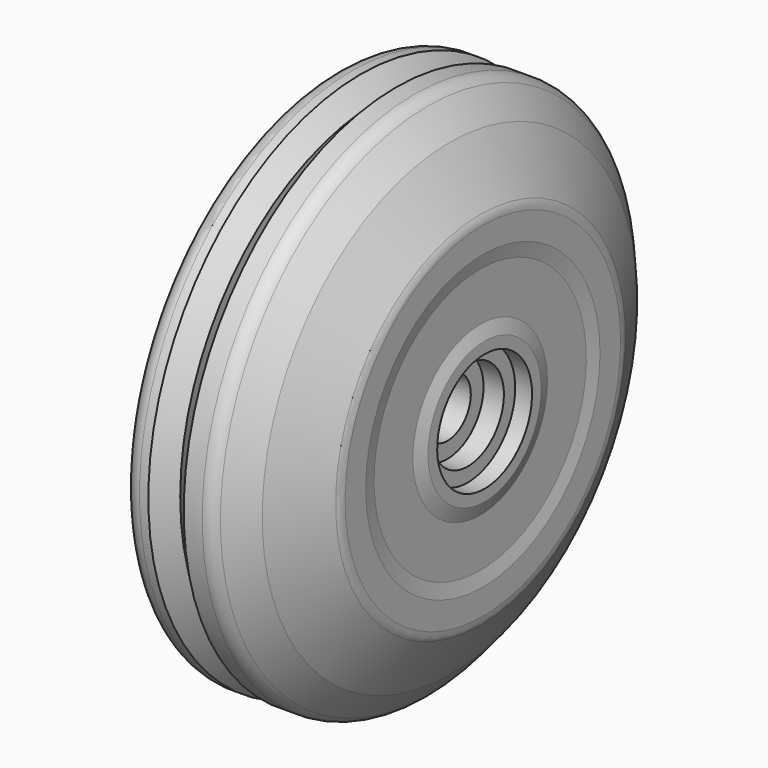
from build123d import *


with BuildPart() as f1:
    # F0 (on Front) → F1 (revolve)
    with BuildSketch(Plane.XZ):
        with BuildLine():
            Line((0, 1.220335), (0, 0))
            Line((0, 0), (6.8, 0))
            Line((6.8, 0), (6.8, 3.3))
            Line((6.8, 3.3), (12.8, 3.3))
            Line((12.8, 3.3), (12.8, 5.1))
            Line((12.8, 5.1), (15.1, 5.1))
            Line((15.1, 5.1), (15.1, 6.7))
            Line((15.1, 6.7), (17, 6.7))
            Line((17, 6.7), (17, 8))
            Line((17, 8), (16.5, 9.5))
            Line((16.5, 9.5), (16.5, 15))
            Line((16.5, 15), (16.8, 16.552417))
            Line((16.8, 16.552417), (16.8, 19.464102))
            ThreePointArc((16.8, 19.464102), (16.731852, 19.98174), (16.532051, 20.464102))
            Line((16.532051, 20.464102), (13.056557, 26.483833))
            Line((13.056557, 26.483833), (10.597967, 29.312118))
            ThreePointArc((10.597967, 29.312118), (9.917934, 29.819923), (9.088547, 30))
            Line((9.088547, 30), (7, 30))
            Line((7, 30), (5, 28))
            Line((5, 28), (3, 30))
            Line((3, 30), (2, 30))
            ThreePointArc((2, 30), (0.585786, 29.414214), (0, 28))
            Line((0, 28), (0, 24.727681))
            ThreePointArc((0, 24.727681), (0.120536, 24.043856), (0.467617, 23.442457))
            Line((0.467617, 23.442457), (9.637278, 12.509399))
            ThreePointArc((9.637278, 12.509399), (10.475889, 9.065084), (8.248744, 6.307113))
            Line((8.248744, 6.307113), (1.161884, 3.036254))
            ThreePointArc((1.161884, 3.036254), (0.315329, 2.298242), (0, 1.220335))
        make_face()
    revolve(axis=Axis((3.4, 0, 0), (-1, 0, 0)))


solid = f1.part
